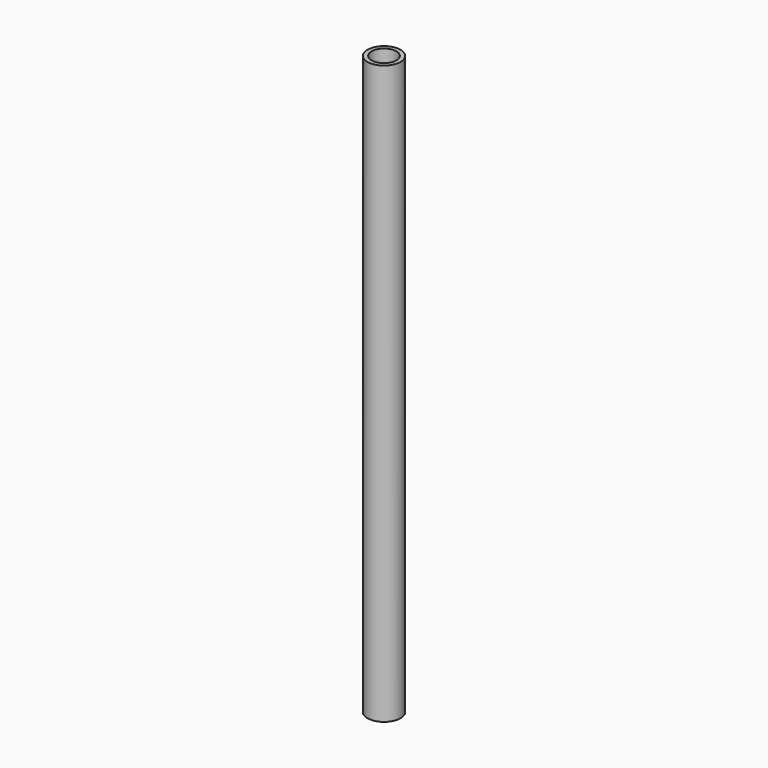
from build123d import *

# Parameters (mm, degrees)
F0_R     = 10
F1_DEPTH = 175
F2_T     = -2.5


with BuildPart() as f1:
    # F0 (on Top) → F1 (new body, symmetric)
    with BuildSketch(Plane.XY):
        Circle(F0_R)
    extrude(amount=F1_DEPTH, both=True)

    # F2
    f2_openings = [f1.faces().sort_by_distance(p)[0] for p in [
        (0, 0, -175),
        (0, 0, 175),
    ]]
    offset(amount=F2_T, openings=f2_openings)


solid = f1.part
